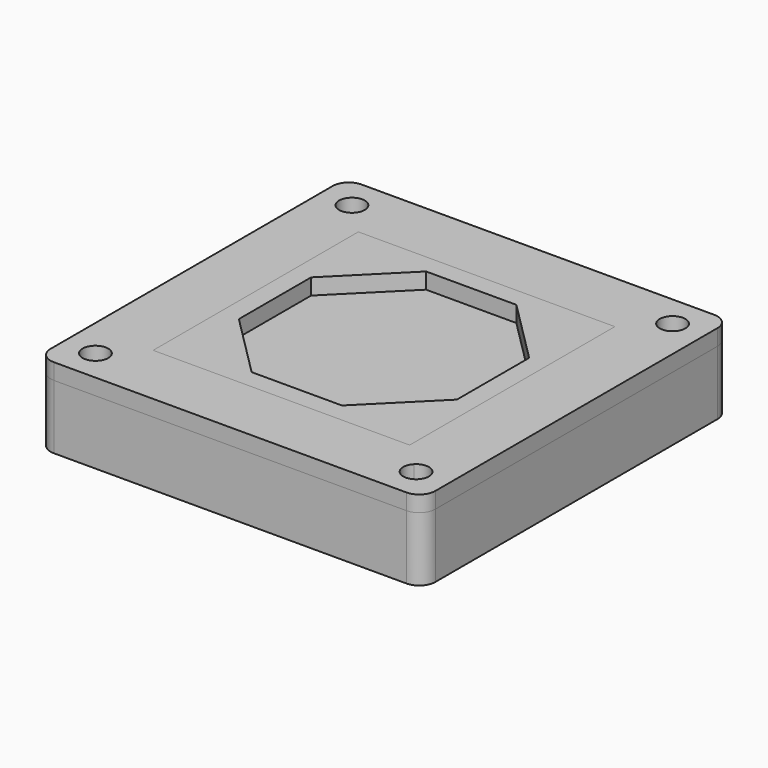
from build123d import *

# Parameters (mm, degrees)
F1_W      = 30.48
F1_H      = 30.48
F1_R      = 1.016
F1_W_2    = 20.32
F1_H_2    = 20.32
F2_DEPTH  = 6.35
F3_R      = 1.27
F4_DEPTH  = 6.35
F5_R      = 1.27
F6_DEPTH  = 3.175
F7_R      = 1.27
F8_DEPTH  = 5.08
F9_R      = 1.016
F10_DEPTH = 2.54
F11_COUNT = 4
F11_ANGLE = 810
F13_R     = 1.27
F14_SIZE  = 1.27


with BuildPart() as f2:
    # F1 (on Top) → F2 (new body)
    with BuildSketch(Plane.XY):
        Rectangle(F1_W, F1_H)
        with Locations((-12.7, -12.7)):
            Circle(F1_R, mode=Mode.SUBTRACT)
        with BuildLine():
            ThreePointArc((13.4184204897, -13.4184204897), (11.9815795103, -13.4184204897), (11.9815795103, -11.9815795103))
            ThreePointArc((11.9815795103, -11.9815795103), (13.0888063673, -11.761338395), (13.716, -12.7))
            ThreePointArc((13.716, -12.7), (13.638661605, -13.0888063673), (13.4184204897, -13.4184204897))
        make_face(mode=Mode.SUBTRACT)
        with Locations((-12.7, 12.7)):
            Circle(F1_R, mode=Mode.SUBTRACT)
        Rectangle(F1_W_2, F1_H_2, mode=Mode.SUBTRACT)
        with Locations((12.7, 12.7)):
            Circle(F1_R, mode=Mode.SUBTRACT)
        Rectangle(F1_W_2, F1_H_2)
        Polygon((-3.5771483247, -8.636), (-8.636, -3.5771483247), (-8.636, 3.5771483247), (-3.5771483247, 8.636), (3.5771483247, 8.636), (8.636, 3.5771483247), (8.636, -3.5771483247), (3.5771483247, -8.636), align=None, mode=Mode.SUBTRACT)
    extrude(amount=F2_DEPTH)

    # F3
    f3_edges = [f2.edges().sort_by_distance(p)[0] for p in [
        (-15.24, 15.24, 3.175),
        (-15.24, -15.24, 3.175),
        (15.24, 15.24, 3.175),
        (15.24, -15.24, 3.175),
    ]]
    fillet(f3_edges, radius=F3_R)


with BuildPart() as f4:
    # F1 (on Top) → F4 (new body)
    with BuildSketch(Plane.XY):
        Rectangle(F1_W, F1_H)
        with Locations((-12.7, -12.7)):
            Circle(F1_R, mode=Mode.SUBTRACT)
        with BuildLine():
            ThreePointArc((13.4184204897, -13.4184204897), (11.9815795103, -13.4184204897), (11.9815795103, -11.9815795103))
            ThreePointArc((11.9815795103, -11.9815795103), (13.0888063673, -11.761338395), (13.716, -12.7))
            ThreePointArc((13.716, -12.7), (13.638661605, -13.0888063673), (13.4184204897, -13.4184204897))
        make_face(mode=Mode.SUBTRACT)
        with Locations((-12.7, 12.7)):
            Circle(F1_R, mode=Mode.SUBTRACT)
        Rectangle(F1_W_2, F1_H_2, mode=Mode.SUBTRACT)
        with Locations((12.7, 12.7)):
            Circle(F1_R, mode=Mode.SUBTRACT)
    extrude(amount=F4_DEPTH)

    # F5
    f5_edges = [f4.edges().sort_by_distance(p)[0] for p in [
        (15.24, 15.24, 3.175),
        (15.24, -15.24, 3.175),
        (-15.24, 15.24, 3.175),
        (-15.24, -15.24, 3.175),
    ]]
    fillet(f5_edges, radius=F5_R)


with BuildPart() as f6:
    # F1 (on Top) → F6 (new body)
    with BuildSketch(Plane.XY):
        Rectangle(F1_W, F1_H)
        with Locations((-12.7, -12.7)):
            Circle(F1_R, mode=Mode.SUBTRACT)
        with BuildLine():
            ThreePointArc((13.4184204897, -13.4184204897), (11.9815795103, -13.4184204897), (11.9815795103, -11.9815795103))
            ThreePointArc((11.9815795103, -11.9815795103), (13.0888063673, -11.761338395), (13.716, -12.7))
            ThreePointArc((13.716, -12.7), (13.638661605, -13.0888063673), (13.4184204897, -13.4184204897))
        make_face(mode=Mode.SUBTRACT)
        with Locations((-12.7, 12.7)):
            Circle(F1_R, mode=Mode.SUBTRACT)
        Rectangle(F1_W_2, F1_H_2, mode=Mode.SUBTRACT)
        with Locations((12.7, 12.7)):
            Circle(F1_R, mode=Mode.SUBTRACT)
        Rectangle(F1_W_2, F1_H_2)
        Polygon((-3.5771483247, -8.636), (-8.636, -3.5771483247), (-8.636, 3.5771483247), (-3.5771483247, 8.636), (3.5771483247, 8.636), (8.636, 3.5771483247), (8.636, -3.5771483247), (3.5771483247, -8.636), align=None, mode=Mode.SUBTRACT)
        Polygon((-8.636, 3.5771483247), (-8.636, -3.5771483247), (-3.5771483247, -8.636), (3.5771483247, -8.636), (8.636, -3.5771483247), (8.636, 3.5771483247), (3.5771483247, 8.636), (-3.5771483247, 8.636), align=None)
    extrude(amount=F6_DEPTH)

    # F7
    f7_edges = [f6.edges().sort_by_distance(p)[0] for p in [
        (-15.24, 15.24, 1.5875),
        (15.24, 15.24, 1.5875),
        (15.24, -15.24, 1.5875),
        (-15.24, -15.24, 1.5875),
    ]]
    fillet(f7_edges, radius=F7_R)

    # F14
    f14_edges = [f6.edges().sort_by_distance(p)[0] for p in [
        (-13.716, -12.7, 3.175),
        (-13.716, 12.7, 3.175),
        (11.684, 12.7, 3.175),
        (11.98158, -11.98158, 3.175),
    ]]
    chamfer(f14_edges, length=F14_SIZE)


with BuildPart() as f8:
    # F1 (on Top) → F8 (new body)
    with BuildSketch(Plane.XY):
        Rectangle(F1_W, F1_H)
        with Locations((-12.7, -12.7)):
            Circle(F1_R, mode=Mode.SUBTRACT)
        with BuildLine():
            ThreePointArc((13.4184204897, -13.4184204897), (11.9815795103, -13.4184204897), (11.9815795103, -11.9815795103))
            ThreePointArc((11.9815795103, -11.9815795103), (13.0888063673, -11.761338395), (13.716, -12.7))
            ThreePointArc((13.716, -12.7), (13.638661605, -13.0888063673), (13.4184204897, -13.4184204897))
        make_face(mode=Mode.SUBTRACT)
        with Locations((-12.7, 12.7)):
            Circle(F1_R, mode=Mode.SUBTRACT)
        Rectangle(F1_W_2, F1_H_2, mode=Mode.SUBTRACT)
        with Locations((12.7, 12.7)):
            Circle(F1_R, mode=Mode.SUBTRACT)
        Rectangle(F1_W_2, F1_H_2)
        Polygon((-3.5771483247, -8.636), (-8.636, -3.5771483247), (-8.636, 3.5771483247), (-3.5771483247, 8.636), (3.5771483247, 8.636), (8.636, 3.5771483247), (8.636, -3.5771483247), (3.5771483247, -8.636), align=None, mode=Mode.SUBTRACT)
        Polygon((-8.636, 3.5771483247), (-8.636, -3.5771483247), (-3.5771483247, -8.636), (3.5771483247, -8.636), (8.636, -3.5771483247), (8.636, 3.5771483247), (3.5771483247, 8.636), (-3.5771483247, 8.636), align=None)
    extrude(amount=F8_DEPTH)


with BuildPart() as f10:
    # F9 (on face) → F10 (new body, symmetric)
    with BuildSketch(Plane(origin=(0, 0, 0), x_dir=(1, 0, 0), z_dir=(0, 0, -1))):
        Polygon((-14.4471824169, 13.7087362387), (-14.4471824169, 11.6912637613), (-12.7, 10.6825275225), (-10.9528175831, 11.6912637613), (-10.9528175831, 13.7087362387), (-12.7, 14.7174724775), align=None)
        with Locations((-12.7, 12.7)):
            Circle(F9_R, mode=Mode.SUBTRACT)
    extrude(amount=F10_DEPTH, both=True)


with BuildPart() as f11_1:
    # F11: instance of F10
    add(f10.part.rotate(Axis((0, 0, -0.5095088854), (0, 0, -1)), 1 * F11_ANGLE / (F11_COUNT - 1)))


with BuildPart() as f11_2:
    # F11: instance of F10
    add(f10.part.rotate(Axis((0, 0, -0.5095088854), (0, 0, -1)), 2 * F11_ANGLE / (F11_COUNT - 1)))


with BuildPart() as f11_3:
    # F11: instance of F10
    add(f10.part.rotate(Axis((0, 0, -0.5095088854), (0, 0, -1)), 3 * F11_ANGLE / (F11_COUNT - 1)))


with BuildPart() as f8_1:
    add(f8.part)

    # F12: cut F10, F11_1, F11_2, F11_3
    add(f10.part, mode=Mode.SUBTRACT)
    add(f11_1.part, mode=Mode.SUBTRACT)
    add(f11_2.part, mode=Mode.SUBTRACT)
    add(f11_3.part, mode=Mode.SUBTRACT)

    # F13
    f13_edges = [f8_1.edges().sort_by_distance(p)[0] for p in [
        (15.24, -15.24, 2.54),
        (-15.24, -15.24, 2.54),
        (-15.24, 15.24, 2.54),
        (15.24, 15.24, 2.54),
    ]]
    fillet(f13_edges, radius=F13_R)


solid = Compound([f2.part, f4.part, f6.part, f8_1.part])
